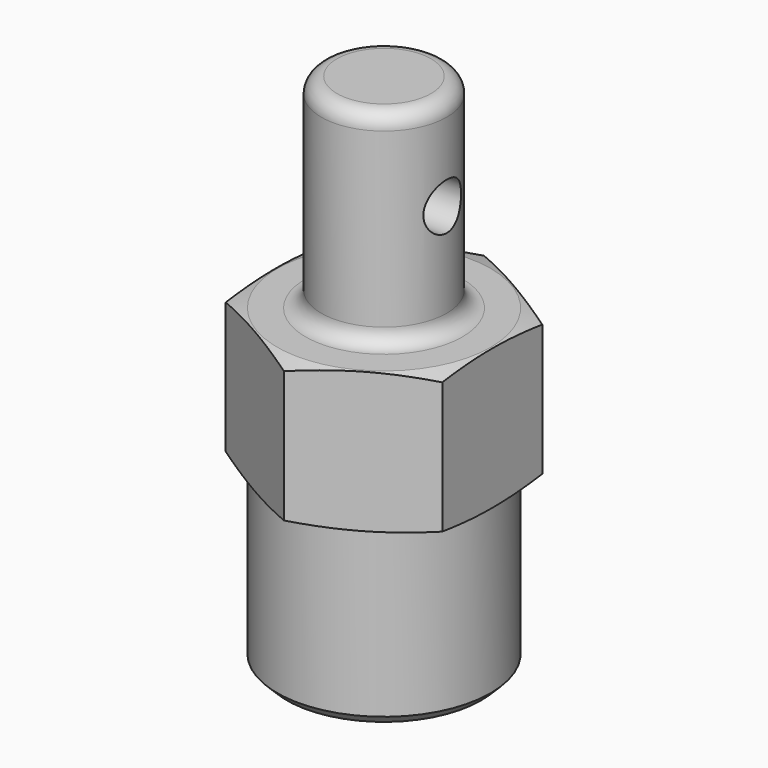
from build123d import *

# Parameters (mm, degrees)
F2_R          = 5.941705
F3_DEPTH      = 16.501
F4_R          = 0.75
F5_DEPTH      = 3.451
F5_DEPTH_BACK = 3.451
F6_SIZE       = 0.3
F7_SIZE2      = 0.519615
F7_SIZE       = 0.3


with BuildPart() as f1:
    # F0 (on Front) → F1 (revolve)
    with BuildSketch(Plane.XZ):
        with BuildLine():
            Line((1.3, 9), (1.3, 0))
            Line((1.3, 0), (3.4, 0))
            Line((3.4, 0), (3.4, 5.5))
            Line((3.4, 5.5), (4, 5.66077))
            Line((4, 5.66077), (4, 9.83923))
            Line((4, 9.83923), (3.4, 10))
            Line((3.4, 10), (2.5, 10))
            ThreePointArc((2.5, 10), (2.146447, 10.146447), (2, 10.5))
            Line((2, 10.5), (2, 16))
            ThreePointArc((2, 16), (1.853553, 16.353553), (1.5, 16.5))
            Line((1.5, 16.5), (0, 16.5))
            Line((0, 16.5), (0, 9))
            Line((0, 9), (1.3, 9))
        make_face()
    revolve(axis=Axis((0, 0, 7.769906), (0, 0, -1)))

    # F2 (on Top) → F3 (cut, through all)
    with BuildSketch(Plane.XY):
        with Locations((0, -0.622483)):
            Circle(F2_R)
        Polygon((0, 3.983717), (3.45, 1.991858), (3.45, -1.991858), (0, -3.983717), (-3.45, -1.991858), (-3.45, 1.991858), align=None, mode=Mode.SUBTRACT)
    extrude(amount=F3_DEPTH, mode=Mode.SUBTRACT)

    # F4 (on Right) → F5 (cut, two sides)
    with BuildSketch(Plane.YZ) as f5_sk:
        with Locations((0, 13.5)):
            Circle(F4_R)
    extrude(amount=F5_DEPTH, mode=Mode.SUBTRACT)
    extrude(f5_sk.sketch, amount=-F5_DEPTH_BACK, mode=Mode.SUBTRACT)

    # F6
    f6_edges = [f1.edges().sort_by_distance(p)[0] for p in [
        (-3.4, 0, 0),
    ]]
    chamfer(f6_edges, length=F6_SIZE)

    # F7
    f7_edges = [f1.edges().sort_by_distance(p)[0] for p in [
        (-1.3, 0, 0),
    ]]
    chamfer(f7_edges, length=F7_SIZE, length2=F7_SIZE2)


solid = f1.part
